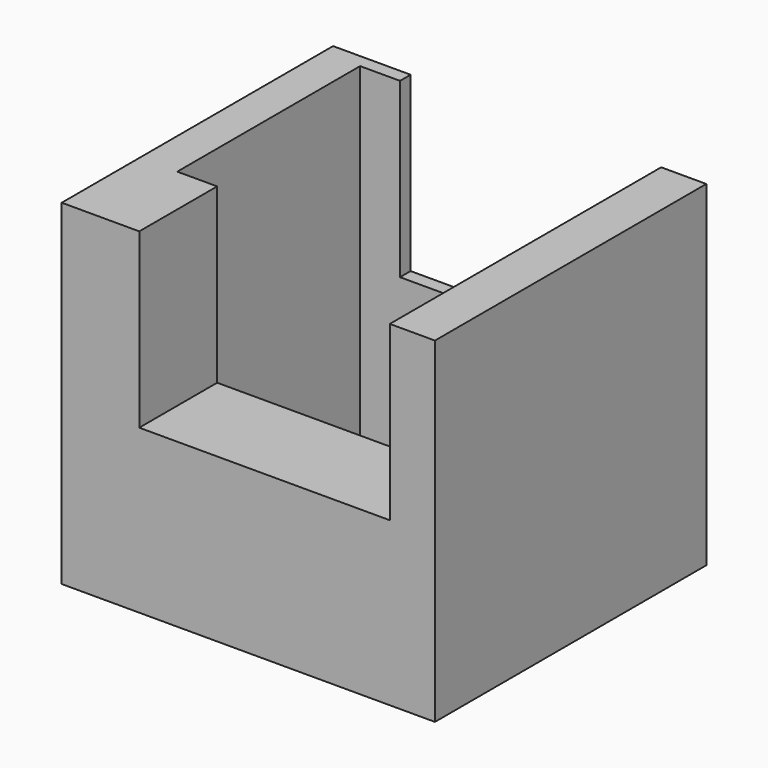
from build123d import *

# Parameters (mm, degrees)
F0_W     = 75.673942
F0_H     = 68.772793
F1_DEPTH = 68.072
F2_W     = 53.099798
F2_H     = 46.344617
F3_DEPTH = 104.902
F4_W     = 137.758225
F4_H     = 67.900397
F5_DEPTH = 25.4


with BuildPart() as f1:
    # F0 (on Top) → F1 (new body)
    with BuildSketch(Plane.XY):
        with Locations((-3.288293, -0.885312)):
            Rectangle(F0_W, F0_H)
    extrude(amount=F1_DEPTH)

    # F2 (on Top) → F3 (cut)
    with BuildSketch(Plane.XY):
        with Locations((-6.945002, 7.641886)):
            Rectangle(F2_W, F2_H)
    extrude(amount=F3_DEPTH, mode=Mode.SUBTRACT)

    # F4 (on Right) → F5 (cut, symmetric)
    with BuildSketch(Plane.YZ):
        with Locations((14.477775, 66.976663)):
            Rectangle(F4_W, F4_H)
    extrude(amount=F5_DEPTH, both=True, mode=Mode.SUBTRACT)


solid = f1.part
